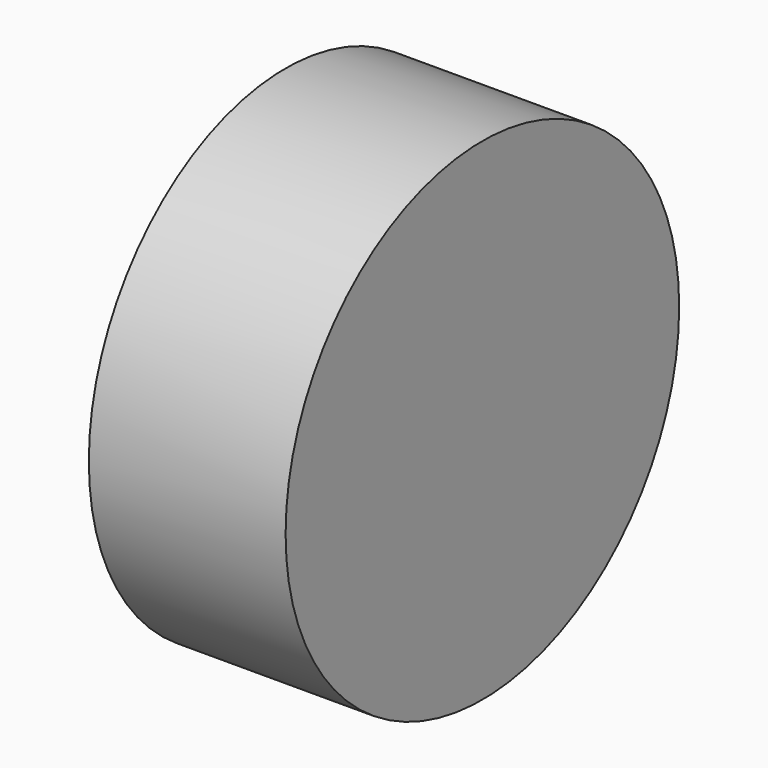
from build123d import *

# Parameters (mm, degrees)
SKETCH_R  = 3.96875
PAD_DEPTH = 3.175


with BuildPart() as part:
    # Sketch → Pad (new body)
    with BuildSketch(Plane.YZ):
        Circle(SKETCH_R)
    extrude(amount=PAD_DEPTH)


solid = part.part
